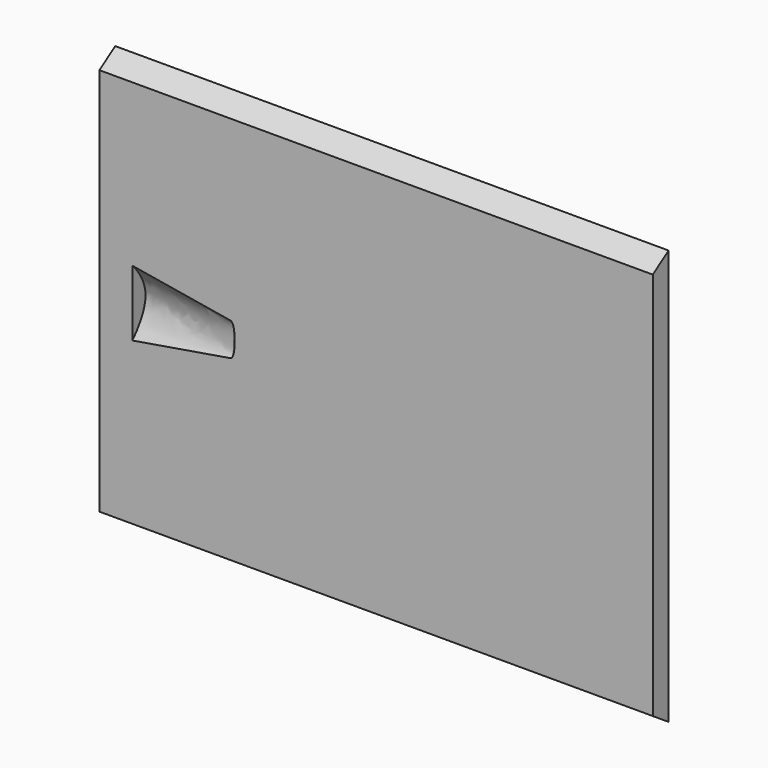
from build123d import *

# Parameters (mm, degrees)
F1_W      = 84
F1_H      = 65
F2_DEPTH  = 3
F3_W      = 3
F3_H      = 3.8
F4_DEPTH  = 5.5
F0_W      = 3
F0_H      = 3.8
F14_DEPTH = 3.5


with BuildPart() as f2:
    # F1 (on Front) → F2 (new body)
    with BuildSketch(Plane.XZ):
        with Locations((42, 32.5)):
            Rectangle(F1_W, F1_H)
    extrude(amount=F2_DEPTH)

    # F3 (on face) → F4 (join)
    with BuildSketch(Plane.XZ):
        with Locations((1.5, 41.1)):
            Rectangle(F3_W, F3_H)
    extrude(amount=-F4_DEPTH)

    # F6: sweep along a path in F0
    with BuildLine(Plane.XZ) as f6_path:
        Line((0, 0), (87, 0))
    # F5 (on face) → F6 (sweep, cut)
    with BuildSketch(Plane(origin=(0, 0, 0), x_dir=(0, -1, 0), z_dir=(-1, 0, 0))):
        Polygon((3, 65), (0, 65), (0, 64), (3, 62), align=None)
        Polygon((0, 1), (0, 0), (3, 0), (3, 3), align=None)
    sweep(path=f6_path.line, mode=Mode.SUBTRACT)

    # F11 (on line) → F12 section 0
    with BuildSketch(Plane(origin=(20, 0, 0), x_dir=(0, -1, 0), z_dir=(-1, 0, 0))):
        with BuildLine():
            Line((3, 30), (3, 35))
            add(Edge.make_bspline(
                [(3, 30), (2.5, 30.5), (2.5, 32.5), (2.5, 34.5), (3, 35)],
                knots=[0, 0, 0, 0, 0.5, 1, 1, 1, 1], degree=3))
        make_face()
    # F9 (on line) → F12 section 1
    with BuildSketch(Plane(origin=(5, 0, 0), x_dir=(0, -1, 0), z_dir=(-1, 0, 0))):
        with BuildLine():
            Line((3, 27.5), (3, 37.5))
            add(Edge.make_bspline(
                [(3, 27.5), (2, 28.5), (-1, 32.5), (2, 36.5), (3, 37.5)],
                knots=[0, 0, 0, 0, 0.5, 1, 1, 1, 1], degree=3))
        make_face()
    loft(mode=Mode.SUBTRACT)

    # F11 (on line) → F13 (revolve, cut)
    with BuildSketch(Plane(origin=(20, 0, 0), x_dir=(0, -1, 0), z_dir=(-1, 0, 0))):
        with BuildLine():
            Line((3, 30), (3, 35))
            add(Edge.make_bspline(
                [(3, 30), (2.5, 30.5), (2.5, 32.5), (2.5, 34.5), (3, 35)],
                knots=[0, 0, 0, 0, 0.5, 1, 1, 1, 1], degree=3))
        make_face()
    revolve(axis=Axis((20, -3, 20), (0, 0, -1)), mode=Mode.SUBTRACT)

    # F0 (on Front) → F14 (join)
    with BuildSketch(Plane.XZ):
        with Locations((1.5, 30.5)):
            Rectangle(F0_W, F0_H)
    extrude(amount=-F14_DEPTH)


solid = f2.part
